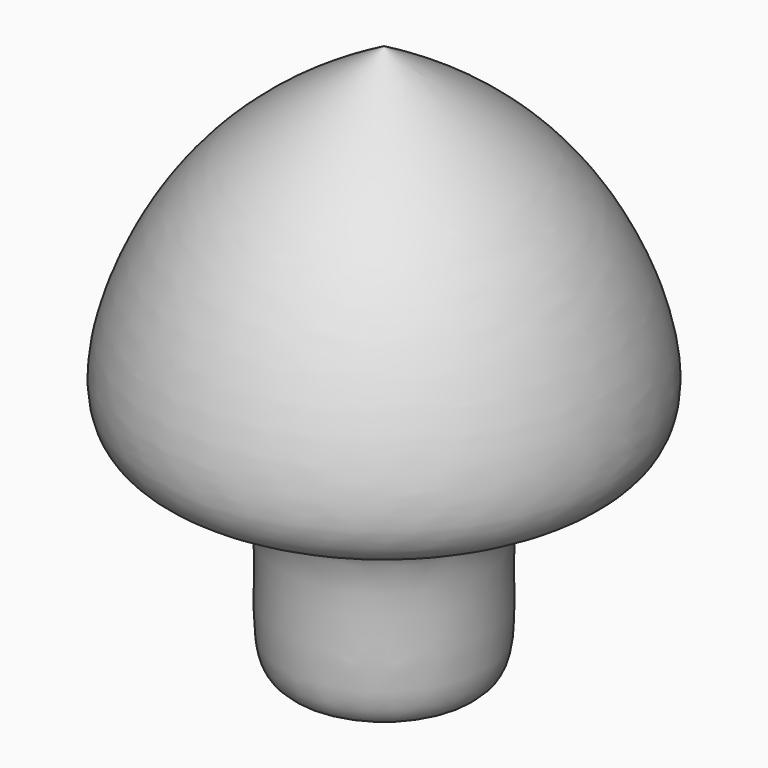
from build123d import *


with BuildPart() as f1:
    # F0 (on Front) → F1 (revolve)
    with BuildSketch(Plane.XZ):
        with BuildLine():
            add(Edge.make_bspline(
                [(0, 21.759705618), (-2.6093146352, 20.2405908201), (-7.6191851673, 17.3238983069), (-10.8816179566, 6.9343545011), (-2.7689864276, 7.7693474553), (-5.2394586253, -1.5304278424), (-1.5929167253, -0.4652854963), (0, 0)],
                knots=[0, 0, 0, 0, 0.243874058, 0.4682369233, 0.6426292345, 0.8438899415, 1, 1, 1, 1], degree=3))
            Line((0, 0), (0, 21.759705618))
        make_face()
    revolve(axis=Axis((0, 0, 10.879852809), (0, 0, 1)))


solid = f1.part
